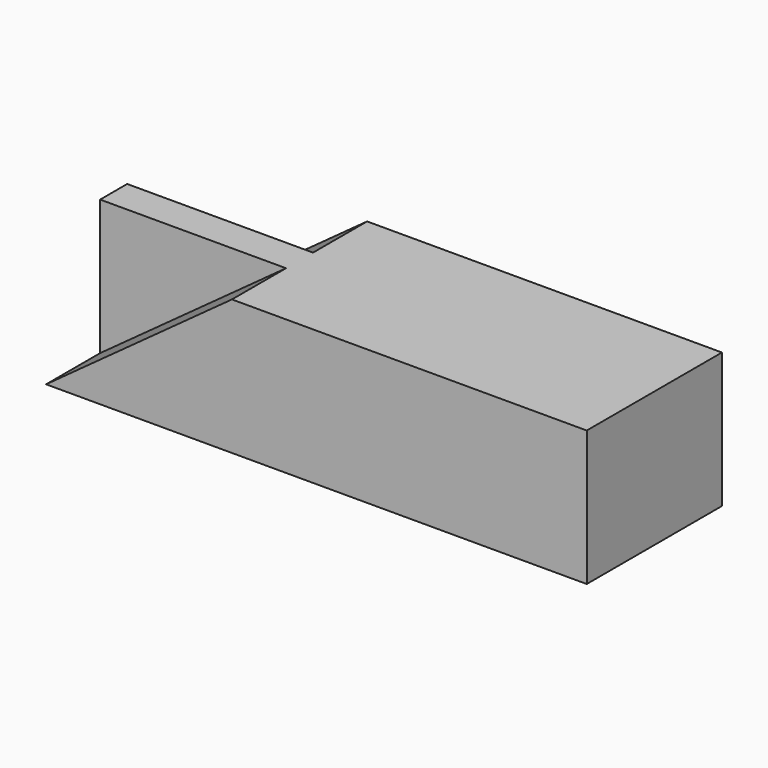
from build123d import *

# Parameters (mm, degrees)
F0_W     = 203.2
F0_H     = 50.8
F1_DEPTH = 63.5
F3_DEPTH = 25.4
F5_DEPTH = 25.4


with BuildPart() as f1:
    # F0 (on Front) → F1 (new body)
    with BuildSketch(Plane.XZ):
        with Locations((-22.86, 14.851971)):
            Rectangle(F0_W, F0_H)
    extrude(amount=F1_DEPTH)

    # F2 (on face) → F3 (cut)
    with BuildSketch(Plane.XZ.offset(63.5)):
        Polygon((-124.46, 40.251971), (-124.46, -10.548029), (-54.61, 40.251971), align=None)
    extrude(amount=-F3_DEPTH, mode=Mode.SUBTRACT)

    # F4 (on face) → F5 (cut)
    with BuildSketch(Plane(origin=(0, 0, 0), x_dir=(-1, 0, 0), z_dir=(0, 1, 0))):
        Polygon((54.61, 40.251971), (124.46, -10.548029), (124.46, 40.251971), align=None)
    extrude(amount=-F5_DEPTH, mode=Mode.SUBTRACT)


solid = f1.part
